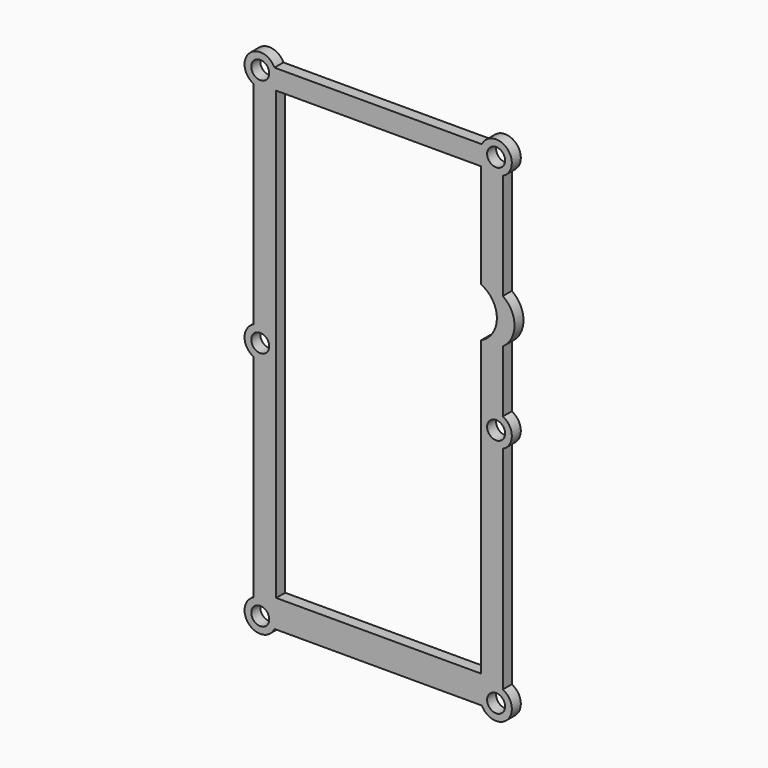
from build123d import *

# Parameters (mm, degrees)
F0_R     = 4
F1_DEPTH = 2.5


with BuildPart() as f1:
    # F0 (on Front) → F1 (new body, symmetric)
    with BuildSketch(Plane.XZ):
        with BuildLine():
            Line((-57.774334, -17.846146), (-57.774334, -112.197036))
            ThreePointArc((-57.774334, -112.197036), (-59.724081, -123.471338), (-48.449779, -121.521591))
            Line((-48.449779, -121.521591), (43.901111, -121.521591))
            ThreePointArc((43.901111, -121.521591), (55.175413, -123.471338), (53.225666, -112.197036))
            Line((53.225666, -112.197036), (53.225666, -17.846146))
            ThreePointArc((53.225666, -17.846146), (57.225666, -11.521591), (53.225666, -5.197036))
            Line((53.225666, -5.197036), (53.225666, 22.303822))
            ThreePointArc((53.225666, 22.303822), (58.408131, 32.160811), (53.225666, 42.017801))
            Line((53.225666, 42.017801), (53.225666, 89.153854))
            ThreePointArc((53.225666, 89.153854), (55.175413, 100.428157), (43.901111, 98.478409))
            Line((43.901111, 98.478409), (-48.449779, 98.478409))
            ThreePointArc((-48.449779, 98.478409), (-59.724081, 100.428157), (-57.774334, 89.153854))
            Line((-57.774334, 89.153854), (-57.774334, -5.197036))
            ThreePointArc((-57.774334, -5.197036), (-61.774334, -11.521591), (-57.774334, -17.846146))
        make_face()
        with Locations((-54.774334, -118.521591)):
            Circle(F0_R, mode=Mode.SUBTRACT)
        with Locations((50.225666, -118.521591)):
            Circle(F0_R, mode=Mode.SUBTRACT)
        with Locations((-54.774334, -11.521591)):
            Circle(F0_R, mode=Mode.SUBTRACT)
        with Locations((-54.774334, 95.478409)):
            Circle(F0_R, mode=Mode.SUBTRACT)
        with BuildLine():
            Line((-47.672213, -109.113894), (-47.672213, 89.714533))
            Line((-47.672213, 89.714533), (43.570419, 89.714533))
            Line((43.570419, 89.714533), (43.570419, 43.387121))
            ThreePointArc((43.570419, 43.387121), (50.570419, 32.478409), (43.570419, 21.569697))
            Line((43.570419, 21.569697), (43.570419, -109.113894))
            Line((43.570419, -109.113894), (-47.672213, -109.113894))
        make_face(mode=Mode.SUBTRACT)
        with Locations((50.225666, -11.521591)):
            Circle(F0_R, mode=Mode.SUBTRACT)
        with Locations((50.225666, 95.478409)):
            Circle(F0_R, mode=Mode.SUBTRACT)
    extrude(amount=F1_DEPTH, both=True)


solid = f1.part
